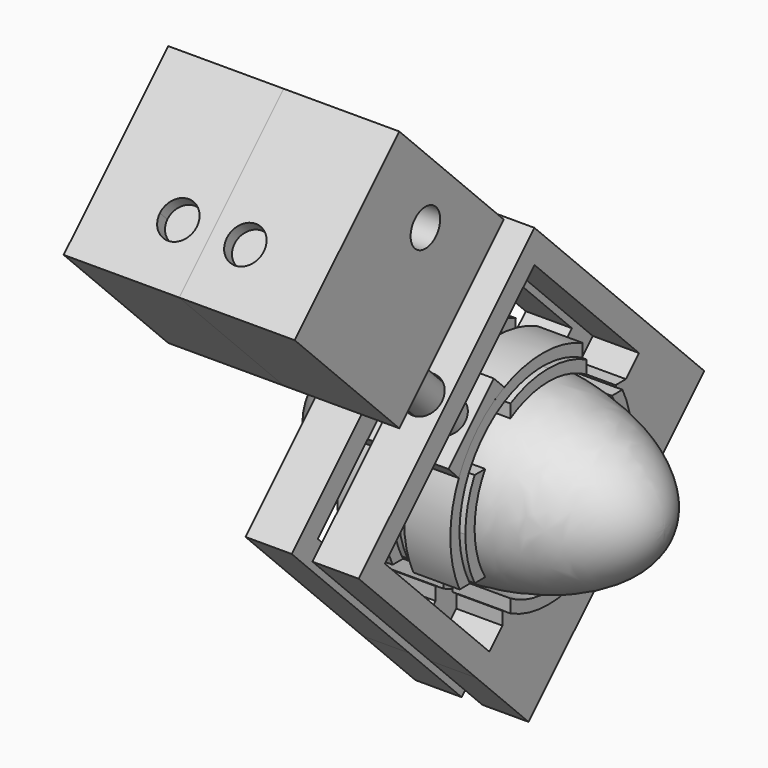
from build123d import *

# Parameters (mm, degrees)
F4_DEPTH  = 25
F7_DEPTH  = 10
F9_DEPTH  = 10
F11_DEPTH = 10
F13_DEPTH = 150
F15_DEPTH = 10
F17_W     = 29
F17_H     = 50
F17_H_2   = 30
F18_DEPTH = 80
F20_DEPTH = 50
F22_DEPTH = 80
F24_DEPTH = 50


with BuildPart() as f1:
    # F0 (on Front) → F1 (revolve)
    with BuildSketch(Plane.XZ):
        with BuildLine():
            Line((0, 0), (0, 40))
            add(Edge.make_bspline(
                [(0, 40), (-75, 40), (-75, 0)],
                knots=[1.5707963268, 1.5707963268, 1.5707963268, 3.1415926536, 3.1415926536, 3.1415926536], degree=2, weights=[1, 0.7071067812, 1]))
            Line((-75, 0), (0, 0))
        make_face()
    revolve(axis=Axis((-37.5, 0, 0), (-1, 0, 0)))


with BuildPart() as f2:
    # F0 (on Front) → F2 (revolve)
    with BuildSketch(Plane.XZ):
        with BuildLine():
            Line((0, 0), (75, 0))
            add(Edge.make_bspline(
                [(75, 0), (75, 40), (0, 40)],
                knots=[0, 0, 0, 1.5707963268, 1.5707963268, 1.5707963268], degree=2, weights=[1, 0.7071067812, 1]))
            Line((0, 40), (0, 0))
        make_face()
    revolve(axis=Axis((37.5, 0, 0), (1, 0, 0)))


with BuildPart() as f4:
    # F3 (on Right) → F4 (new body)
    with BuildSketch(Plane.YZ):
        with BuildLine():
            ThreePointArc((-34.278273002, -20.6155281281), (-38.5430338718, -10.6974080954), (-40, 0))
            Line((-40, 0), (-45, 0))
            ThreePointArc((-45, 0), (-43.7321392113, -10.6066017178), (-40, -20.6155281281))
            Line((-40, -20.6155281281), (-34.278273002, -20.6155281281))
        make_face()
        with BuildLine():
            Line((-45, 0), (-40, 0))
            ThreePointArc((-40, 0), (-38.5430338718, 10.6974080954), (-34.278273002, 20.6155281281))
            Line((-34.278273002, 20.6155281281), (-40, 20.6155281281))
            ThreePointArc((-40, 20.6155281281), (-43.7321392113, 10.6066017178), (-45, 0))
        make_face()
    extrude(amount=F4_DEPTH)


with BuildPart() as f4b:
    # F3 (on Right) → F4, piece 2 (new body)
    with BuildSketch(Plane.YZ):
        with BuildLine():
            ThreePointArc((-20.6155281281, 34.278273002), (-10.6974080954, 38.5430338718), (0, 40))
            Line((0, 40), (0, 45))
            ThreePointArc((0, 45), (-10.6066017178, 43.7321392113), (-20.6155281281, 40))
            Line((-20.6155281281, 40), (-20.6155281281, 34.278273002))
        make_face()
        with BuildLine():
            Line((0, 45), (0, 40))
            ThreePointArc((0, 40), (10.6974080954, 38.5430338718), (20.6155281281, 34.278273002))
            Line((20.6155281281, 34.278273002), (20.6155281281, 40))
            ThreePointArc((20.6155281281, 40), (10.6066017178, 43.7321392113), (0, 45))
        make_face()
    extrude(amount=F4_DEPTH)


with BuildPart() as f4c:
    # F3 (on Right) → F4, piece 3 (new body)
    with BuildSketch(Plane.YZ):
        with BuildLine():
            ThreePointArc((34.278273002, 20.6155281281), (38.5430338718, 10.6974080954), (40, 0))
            Line((40, 0), (45, 0))
            ThreePointArc((45, 0), (43.7321392113, 10.6066017178), (40, 20.6155281281))
            Line((40, 20.6155281281), (34.278273002, 20.6155281281))
        make_face()
        with BuildLine():
            Line((45, 0), (40, 0))
            ThreePointArc((40, 0), (38.5430338718, -10.6974080954), (34.278273002, -20.6155281281))
            Line((34.278273002, -20.6155281281), (40, -20.6155281281))
            ThreePointArc((40, -20.6155281281), (43.7321392113, -10.6066017178), (45, 0))
        make_face()
    extrude(amount=F4_DEPTH)


with BuildPart() as f4d:
    # F3 (on Right) → F4, piece 4 (new body)
    with BuildSketch(Plane.YZ):
        with BuildLine():
            ThreePointArc((0, -40), (-10.6974080954, -38.5430338718), (-20.6155281281, -34.278273002))
            Line((-20.6155281281, -34.278273002), (-20.6155281281, -40))
            ThreePointArc((-20.6155281281, -40), (-10.6066017178, -43.7321392113), (0, -45))
            Line((0, -45), (0, -40))
        make_face()
        with BuildLine():
            ThreePointArc((20.6155281281, -34.278273002), (10.6974080954, -38.5430338718), (0, -40))
            Line((0, -40), (0, -45))
            ThreePointArc((0, -45), (10.6066017178, -43.7321392113), (20.6155281281, -40))
            Line((20.6155281281, -40), (20.6155281281, -34.278273002))
        make_face()
    extrude(amount=F4_DEPTH)


with BuildPart() as f7:
    # F6 (on offset) → F7 (new body, symmetric)
    with BuildSketch(Plane.YZ.offset(12.5)):
        with BuildLine():
            ThreePointArc((45, 0), (22.850029953, -38.7669463738), (-21.7944947177, -39.3700393701))
            Line((-21.7944947177, -39.3700393701), (-21.7944947177, -45))
            Line((-21.7944947177, -45), (-28.8655625296, -52.0710678119))
            Line((-28.8655625296, -52.0710678119), (-35.9366303414, -59.1421356237))
            Line((-35.9366303414, -59.1421356237), (-7.652359094, -87.4264068712))
            Line((-7.652359094, -87.4264068712), (87.4264068712, 7.652359094))
            Line((87.4264068712, 7.652359094), (59.1421356237, 35.9366303414))
            Line((59.1421356237, 35.9366303414), (52.0710678119, 28.8655625296))
            Line((52.0710678119, 28.8655625296), (45, 21.7944947177))
            Line((45, 21.7944947177), (39.3700393701, 21.7944947177))
            ThreePointArc((39.3700393701, 21.7944947177), (43.5697817969, 11.2549595367), (45, 0))
        make_face()
        Polygon((-35.9366303414, -59.1421356237), (-28.8655625296, -52.0710678119), (-85.4341050245, 4.4974746831), (-4.4974746831, 85.4341050245), (52.0710678119, 28.8655625296), (59.1421356237, 35.9366303414), (-4.4974746831, 99.5762406482), (-99.5762406482, 4.4974746831), align=None)
    extrude(amount=F7_DEPTH, both=True)

    # F14 (on face) → F15 (cut)
    with BuildSketch(Plane(origin=(0, -52.0368576656, 52.0368576656), x_dir=(1, 0, 0), z_dir=(0, -0.7071067812, 0.7071067812))):
        with BuildLine():
            ThreePointArc((20.5, 0), (18.1568542495, 5.6568542495), (12.5, 8))
            Line((12.5, 8), (12.5, -8))
            ThreePointArc((12.5, -8), (18.1568542495, -5.6568542495), (20.5, 0))
        make_face()
        with BuildLine():
            Line((12.5, -8), (12.5, 8))
            ThreePointArc((12.5, 8), (4.5, 0), (12.5, -8))
        make_face()
    extrude(amount=-F15_DEPTH, mode=Mode.SUBTRACT)


with BuildPart() as f9:
    # F8 (on offset) → F9 (new body, symmetric)
    with BuildSketch(Plane.YZ.offset(12.5)):
        with BuildLine():
            ThreePointArc((-21.7944947177, 39.3700393701), (-0.0948201068, 44.9999001015), (21.6283872724, 39.4615365134))
            Line((21.6283872724, 39.4615365134), (21.6283872724, 45))
            Line((21.6283872724, 45), (21.7944947177, 45))
            ThreePointArc((21.7944947177, 45), (0, 50), (-21.7944947177, 45))
            Line((-21.7944947177, 45), (-21.7944947177, 39.3700393701))
        make_face()
        with BuildLine():
            ThreePointArc((-39.3700393701, 21.7944947177), (-31.8198051534, 31.8198051534), (-21.7944947177, 39.3700393701))
            Line((-21.7944947177, 39.3700393701), (-21.7944947177, 45))
            ThreePointArc((-21.7944947177, 45), (-35.3553390593, 35.3553390593), (-45, 21.7944947177))
            Line((-45, 21.7944947177), (-39.3700393701, 21.7944947177))
        make_face()
        with BuildLine():
            ThreePointArc((-39.3700393701, -21.7944947177), (-45, 0), (-39.3700393701, 21.7944947177))
            Line((-39.3700393701, 21.7944947177), (-45, 21.7944947177))
            ThreePointArc((-45, 21.7944947177), (-50, 0), (-45, -21.7944947177))
            Line((-45, -21.7944947177), (-39.3700393701, -21.7944947177))
        make_face()
    extrude(amount=F9_DEPTH, both=True)


with BuildPart() as f11:
    # F10 (on offset) → F11 (new body, symmetric)
    with BuildSketch(Plane.YZ.offset(12.5)):
        with BuildLine():
            ThreePointArc((-45.4545454545, 20.8298895225), (-35.3553390593, 35.3553390593), (-20.8298895225, 45.4545454545))
            Line((-20.8298895225, 45.4545454545), (-26.486743772, 51.111399704))
            Line((-26.486743772, 51.111399704), (-51.0228332461, 26.5739448034))
            Line((-51.0228332461, 26.5739448034), (-45.4545454545, 20.8298895225))
        make_face()
    extrude(amount=F11_DEPTH, both=True)


with BuildPart() as f13:
    # F12 (on face) → F13 (new body)
    with BuildSketch(Plane(origin=(0, -38.7998086679, 38.7976495896), x_dir=(1, 0, 0), z_dir=(0, -0.7071264555, 0.7070871063))):
        with BuildLine():
            ThreePointArc((20, 0), (17.8033008589, 5.3033008589), (12.5, 7.5))
            Line((12.5, 7.5), (12.5, -7.5))
            ThreePointArc((12.5, -7.5), (17.8033008589, -5.3033008589), (20, 0))
        make_face()
        with BuildLine():
            Line((12.5, -7.5), (12.5, 7.5))
            ThreePointArc((12.5, 7.5), (5, 0), (12.5, -7.5))
        make_face()
    extrude(amount=F13_DEPTH)


with BuildPart() as f18:
    # F17 (on offset) → F18 (new body)
    with BuildSketch(Plane(origin=(0, -91.8342928313, 91.8291825631), x_dir=(1, 0, 0), z_dir=(0, -0.7071264555, 0.7070871063))):
        with Locations((12.5, 0)):
            Rectangle(F17_W, F17_H)
        with BuildLine():
            ThreePointArc((20.5, 0), (12.5, -8), (4.5, 0))
            ThreePointArc((4.5, 0), (12.5, 8), (20.5, 0))
        make_face(mode=Mode.SUBTRACT)
        Polygon((27, 55), (27, 25), (27, -25), (48, -25), (48, 55), align=None)
        with Locations((12.5, 40)):
            Rectangle(F17_W, F17_H_2)
    extrude(amount=F18_DEPTH)

    # F19 (on face) → F20 (cut)
    with BuildSketch(Plane(origin=(-2, 0, 0), x_dir=(0, -1, 0), z_dir=(-1, 0, 0))):
        with BuildLine():
            ThreePointArc((103.3713023308, 144.8620927585), (98.4328726139, 152.2530864266), (89.7146054803, 150.5191044026))
            Line((89.7146054803, 150.5191044026), (101.0279991813, 139.2050811144))
            ThreePointArc((101.0279991813, 139.2050811144), (102.762295999, 141.8005224755), (103.3713023308, 144.8620927585))
        make_face()
        with BuildLine():
            Line((101.0279991813, 139.2050811144), (89.7146054803, 150.5191044026))
            ThreePointArc((89.7146054803, 150.5191044026), (89.7142906867, 139.205395908), (101.0279991813, 139.2050811144))
        make_face()
    extrude(amount=-F20_DEPTH, mode=Mode.SUBTRACT)


with BuildPart() as f22:
    # F21 (on face) → F22 (new body)
    with BuildSketch(Plane(origin=(0, -91.8342928313, 91.8291825631), x_dir=(-1, 0, 0), z_dir=(0, 0.7071264555, -0.7070871063))):
        Polygon((2, 25), (2, -25), (52, -25), (52, 25), (31, 25), (16.5, 25), align=None)
        with BuildLine():
            ThreePointArc((24.5, 0), (10.8431457505, -5.6568542495), (16.5, 8))
            ThreePointArc((16.5, 8), (22.1568542495, 5.6568542495), (24.5, 0))
        make_face(mode=Mode.SUBTRACT)
        Polygon((2, 55), (2, 25), (16.5, 25), (31, 25), (52, 25), (52, 55), align=None)
    extrude(amount=-F22_DEPTH)

    # F23 (on face) → F24 (cut)
    with BuildSketch(Plane.YZ.offset(-2)):
        with BuildLine():
            ThreePointArc((-89.7142906867, 139.205395908), (-87.9802234802, 141.8007281243), (-87.3713023308, 144.8620927585))
            ThreePointArc((-87.3713023308, 144.8620927585), (-102.7623811815, 147.9234573927), (-89.7142906867, 139.205395908))
        make_face()
    extrude(amount=-F24_DEPTH, mode=Mode.SUBTRACT)


with BuildPart() as f25_1:
    # F25: instance of F13
    add(f13.part.mirror(Plane(origin=(-2, -109.9717304338, 130.2608521459), x_dir=(0, -1, 0), z_dir=(-1, 0, 0))))


with BuildPart() as f25_2:
    # F25: instance of F7
    add(f7.part.mirror(Plane(origin=(-2, -109.9717304338, 130.2608521459), x_dir=(0, -1, 0), z_dir=(-1, 0, 0))))


with BuildPart() as f25_3:
    # F25: instance of F11
    add(f11.part.mirror(Plane(origin=(-2, -109.9717304338, 130.2608521459), x_dir=(0, -1, 0), z_dir=(-1, 0, 0))))


with BuildPart() as f25_4:
    # F25: instance of F4b
    add(f4b.part.mirror(Plane(origin=(-2, -109.9717304338, 130.2608521459), x_dir=(0, -1, 0), z_dir=(-1, 0, 0))))


with BuildPart() as f25_5:
    # F25: instance of F9
    add(f9.part.mirror(Plane(origin=(-2, -109.9717304338, 130.2608521459), x_dir=(0, -1, 0), z_dir=(-1, 0, 0))))


with BuildPart() as f25_6:
    # F25: instance of F4c
    add(f4c.part.mirror(Plane(origin=(-2, -109.9717304338, 130.2608521459), x_dir=(0, -1, 0), z_dir=(-1, 0, 0))))


with BuildPart() as f25_7:
    # F25: instance of F4d
    add(f4d.part.mirror(Plane(origin=(-2, -109.9717304338, 130.2608521459), x_dir=(0, -1, 0), z_dir=(-1, 0, 0))))


with BuildPart() as f25_8:
    # F25: instance of F4
    add(f4.part.mirror(Plane(origin=(-2, -109.9717304338, 130.2608521459), x_dir=(0, -1, 0), z_dir=(-1, 0, 0))))


solid = Compound([f1.part, f2.part, f4.part, f4b.part, f4c.part, f4d.part, f7.part, f9.part, f11.part, f13.part, f18.part, f22.part, f25_1.part, f25_2.part, f25_3.part, f25_4.part, f25_5.part, f25_6.part, f25_7.part, f25_8.part])
